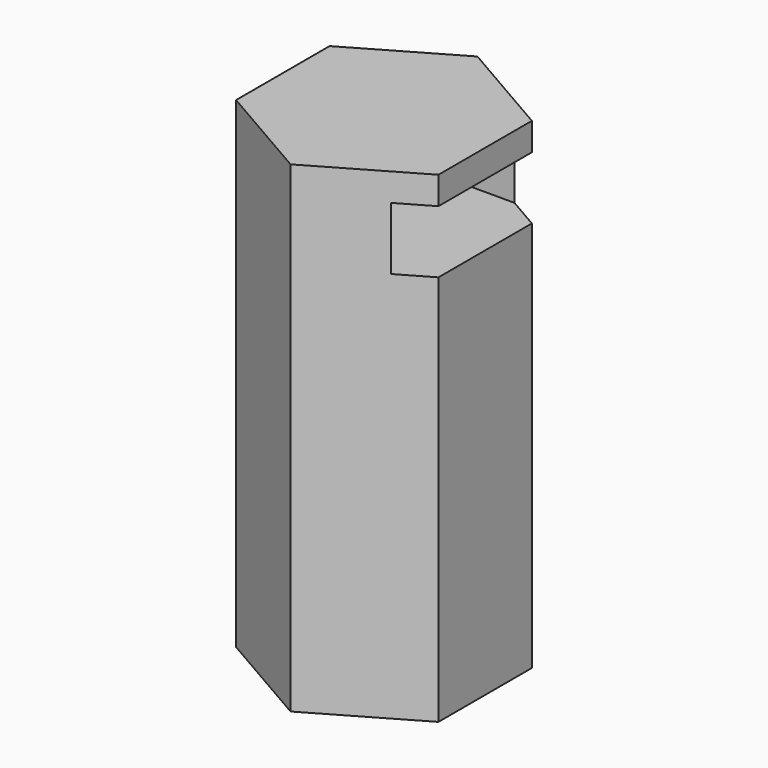
from build123d import *

# Parameters (mm, degrees)
F1_DEPTH = 25.4
F2_R     = 4.064
F3_DEPTH = 4.7625
F4_W     = 8.128
F4_H     = 3.302
F5_DEPTH = 5.335
F6_R     = 4.064
F7_DEPTH = 1.5875
F9_DEPTH = 7.62


with BuildPart() as f1:
    # F0 (on Top) → F1 (new body)
    with BuildSketch(Plane.XY):
        Polygon((5.334, -3.079586), (5.334, 3.079586), (0, 6.159173), (-5.334, 3.079586), (-5.334, -3.079586), (0, -6.159173), align=None)
    extrude(amount=F1_DEPTH)

    # F2 (on face) → F3 (cut)
    with BuildSketch(Plane.XY.offset(25.4)):
        Circle(F2_R)
    extrude(amount=-F3_DEPTH, mode=Mode.SUBTRACT)

    # F4 (on Right) → F5 (cut, through all)
    with BuildSketch(Plane.YZ):
        with Locations((0, 22.2885)):
            Rectangle(F4_W, F4_H)
    extrude(amount=F5_DEPTH, mode=Mode.SUBTRACT)

    # F6 (on face) → F7 (join)
    with BuildSketch(Plane.XY.offset(25.4)):
        Circle(F6_R)
    extrude(amount=-F7_DEPTH)

    # F8 (on face) → F9 (cut)
    with BuildSketch(Plane(origin=(0, 0, 0), x_dir=(1, 0, 0), z_dir=(0, 0, -1))):
        Polygon((0.559566, -4.962233), (0.664833, -4.072655), (-0.148677, -3.697645), (-0.75672, -4.355455), (-0.319002, -5.137013), align=None)
        Polygon((-0.148677, 3.697645), (0.664833, 4.072655), (0.559566, 4.962233), (-0.319002, 5.137013), (-0.75672, 4.355455), align=None)
    extrude(amount=-F9_DEPTH, mode=Mode.SUBTRACT)


solid = f1.part
